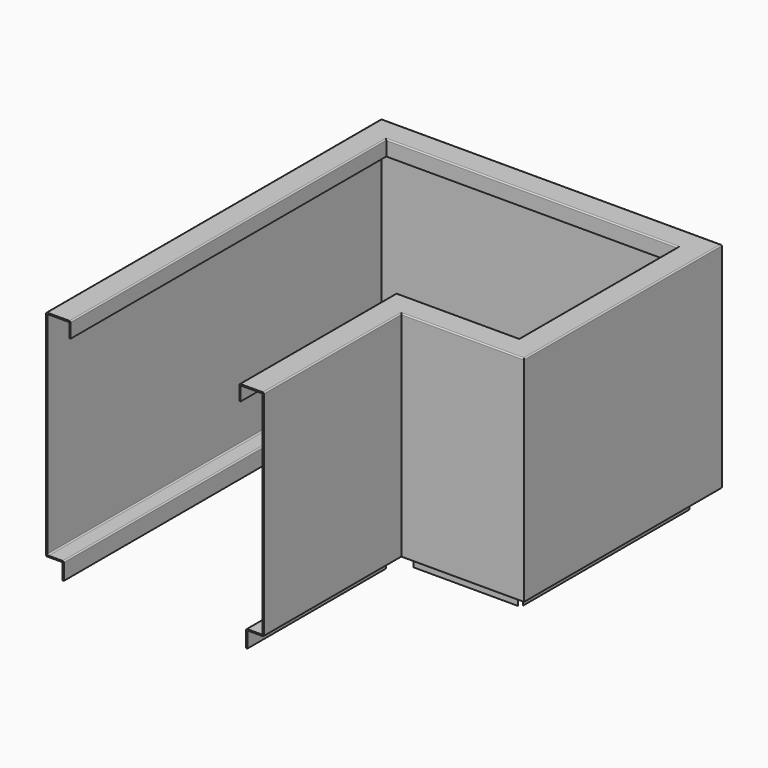
from build123d import *

# Parameters (mm, degrees)
F3_W     = 27
F3_H     = 27
F4_DEPTH = 40


with BuildPart() as f2:
    # F2: sweep along a path in F1
    with BuildLine(Plane.XY) as f2_path:
        Line((0, 0), (0, 683))
        Line((0, 683), (555, 683))
        Line((555, 683), (555, 280))
        Line((555, 280), (355, 280))
        Line((355, 280), (355, 0))
    # F0 (on Front) → F2 (sweep)
    with BuildSketch(Plane.XZ):
        with BuildLine():
            Line((38, 0), (2, 0))
            ThreePointArc((2, 0), (0.5857864376, -0.5857864376), (0, -2))
            Line((0, -2), (0, -348))
            ThreePointArc((0, -348), (0.5857864376, -349.4142135624), (2, -350))
            Line((2, -350), (25, -350))
            ThreePointArc((25, -350), (26.4142135624, -350.5857864376), (27, -352))
            Line((27, -352), (27, -376))
            Line((27, -376), (29, -376))
            Line((29, -376), (29, -350))
            ThreePointArc((29, -350), (28.4142135624, -348.5857864376), (27, -348))
            Line((27, -348), (4, -348))
            ThreePointArc((4, -348), (2.5857864376, -347.4142135624), (2, -346))
            Line((2, -346), (2, -4))
            ThreePointArc((2, -4), (2.5857864376, -2.5857864376), (4, -2))
            Line((4, -2), (36, -2))
            ThreePointArc((36, -2), (37.4142135624, -2.5857864376), (38, -4))
            Line((38, -4), (38, -25))
            Line((38, -25), (40, -25))
            Line((40, -25), (40, -2))
            ThreePointArc((40, -2), (39.4142135624, -0.5857864376), (38, 0))
        make_face()
    sweep(path=f2_path.line, transition=Transition.RIGHT)

    # F3 (on face) → F4 (cut)
    with BuildSketch(Plane.XY.offset(-348)):
        Polygon((2, 681), (29, 648.822653), (29, 654), (34.177347, 654), align=None)
        Polygon((526, 648.822653), (553, 681), (520.822653, 654), (526, 654), align=None)
        Polygon((520.822653, 309), (553, 282), (526, 314.177347), (526, 309), align=None)
        with Locations((339.5, 295.5)):
            Rectangle(F3_W, F3_H)
    extrude(amount=-F4_DEPTH, mode=Mode.SUBTRACT)


solid = f2.part
